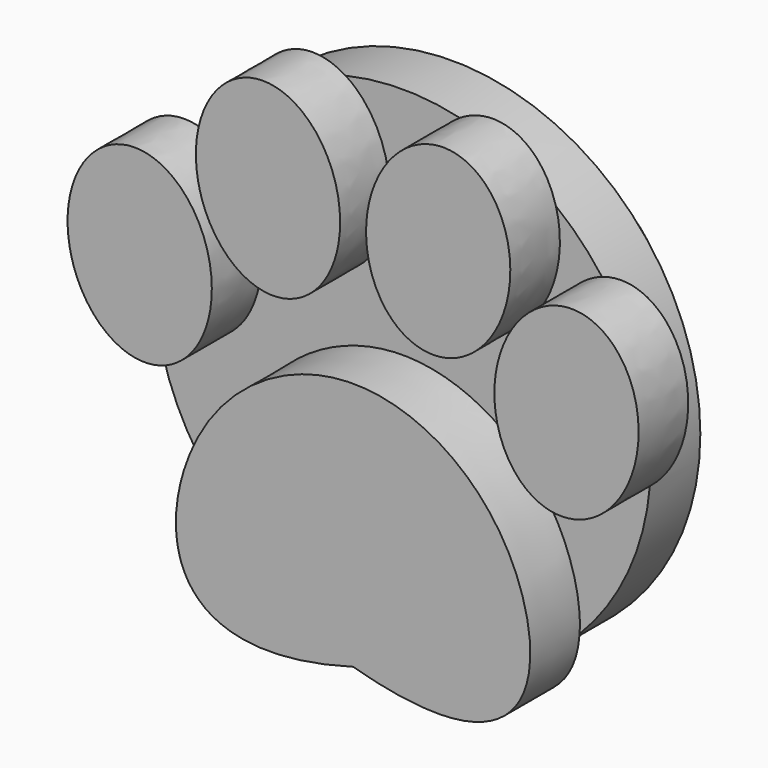
from build123d import *

# Parameters (mm, degrees)
CYLINDER003_R     = 1.4
CYLINDER003_DEPTH = 2.5
SKETCH031_R       = 4
PAD007_DEPTH      = 1
PAD008_DEPTH      = 1


with BuildPart() as part:
    # Cylinder003 → Cylinder003 (join)
    with BuildSketch(Plane.XZ.offset(-2.5)):
        Circle(CYLINDER003_R)
    extrude(amount=CYLINDER003_DEPTH)

    # Sketch031 → Pad007 (join)
    with BuildSketch(Plane.XZ):
        Circle(SKETCH031_R)
    extrude(amount=PAD007_DEPTH)

    # Sketch032 → Pad008 (join)
    with BuildSketch(Plane(origin=(0, -1, -0.5), x_dir=(1, 0, 0), z_dir=(0, -1, 0))):
        with BuildLine():
            add(Edge.make_bspline(
                [(-3.639625, 2.926563), (-5.624597, 2.663211), (-4.335286, 0.557627), (-3.045976, -1.547956), (-2.350315, 0.82098), (-1.654653, 3.189916), (-3.639625, 2.926563)],
                knots=[0, 0, 0, 2.094395, 2.094395, 4.18879, 4.18879, 6.283185, 6.283185, 6.283185], degree=2, weights=[1, 0.5, 1, 0.5, 1, 0.5, 1]))
        make_face()
        with BuildLine():
            add(Edge.make_bspline(
                [(0, -3.2943), (-2.934884, -4.124344), (-3.318071, -0.733701), (0, 1.456989), (3.318071, -0.733701), (2.934884, -4.124344), (0, -3.2943)],
                knots=[0, 0, 0, 0, 0.25, 0.5, 0.75, 1, 1, 1, 1], degree=3))
        make_face()
        with BuildLine():
            add(Edge.make_bspline(
                [(-1.570254, 4.545917), (-3.555226, 4.282565), (-2.265915, 2.176981), (-0.976605, 0.071398), (-0.280944, 2.440334), (0.414718, 4.80927), (-1.570254, 4.545917)],
                knots=[0, 0, 0, 2.094395, 2.094395, 4.18879, 4.18879, 6.283185, 6.283185, 6.283185], degree=2, weights=[1, 0.5, 1, 0.5, 1, 0.5, 1]))
        make_face()
        with BuildLine():
            add(Edge.make_bspline(
                [(1.570254, 4.545917), (-0.414718, 4.80927), (0.280944, 2.440334), (0.976605, 0.071398), (2.265915, 2.176981), (3.555226, 4.282565), (1.570254, 4.545917)],
                knots=[0, 0, 0, 2.094395, 2.094395, 4.18879, 4.18879, 6.283185, 6.283185, 6.283185], degree=2, weights=[1, 0.5, 1, 0.5, 1, 0.5, 1]))
        make_face()
        with BuildLine():
            add(Edge.make_bspline(
                [(3.639625, 2.926563), (1.654653, 3.189916), (2.350315, 0.82098), (3.045976, -1.547956), (4.335286, 0.557627), (5.624597, 2.663211), (3.639625, 2.926563)],
                knots=[0, 0, 0, 2.094395, 2.094395, 4.18879, 4.18879, 6.283185, 6.283185, 6.283185], degree=2, weights=[1, 0.5, 1, 0.5, 1, 0.5, 1]))
        make_face()
    extrude(amount=PAD008_DEPTH)


solid = part.part
